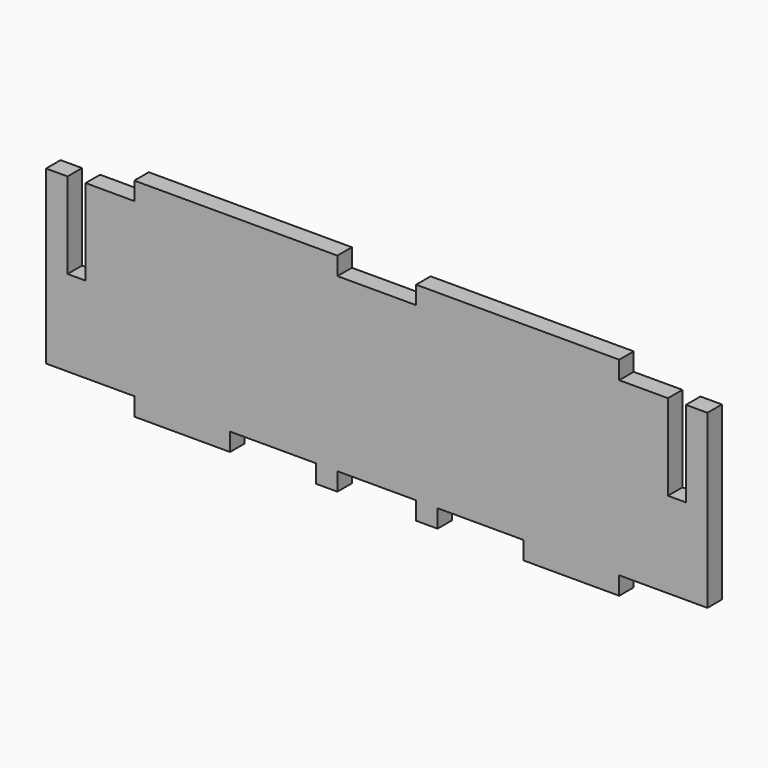
from build123d import *

# Parameters (mm, degrees)
F0_W     = 60.071
F0_H     = 5.334
F0_W_2   = 28.321
F0_W_3   = 6.35
F1_DEPTH = 5.3594


with BuildPart() as f1:
    # F0 (on Front) → F1 (new body)
    with BuildSketch(Plane.XZ):
        with Locations((56.1213, 53.467)):
            Rectangle(F0_W, F0_H)
        with Locations((139.466246, 53.467)):
            Rectangle(F0_W, F0_H)
        Polygon((0, 50.8), (0, 0), (26.0858, 0), (54.4068, 0), (79.8068, 0), (86.1568, 0), (109.430746, 0), (115.780746, 0), (141.180746, 0), (169.501746, 0), (195.587546, 0), (195.587546, 50.8), (189.237546, 50.8), (189.237546, 25.4), (183.903546, 25.4), (183.903546, 50.8), (169.501746, 50.8), (109.430746, 50.8), (86.1568, 50.8), (26.0858, 50.8), (11.684, 50.8), (11.684, 25.4), (6.35, 25.4), (6.35, 50.8), align=None)
        with Locations((40.2463, -2.667)):
            Rectangle(F0_W_2, F0_H)
        with Locations((82.9818, -2.667)):
            Rectangle(F0_W_3, F0_H)
        with Locations((112.605746, -2.667)):
            Rectangle(F0_W_3, F0_H)
        with Locations((155.341246, -2.667)):
            Rectangle(F0_W_2, F0_H)
    extrude(amount=F1_DEPTH)


solid = f1.part
